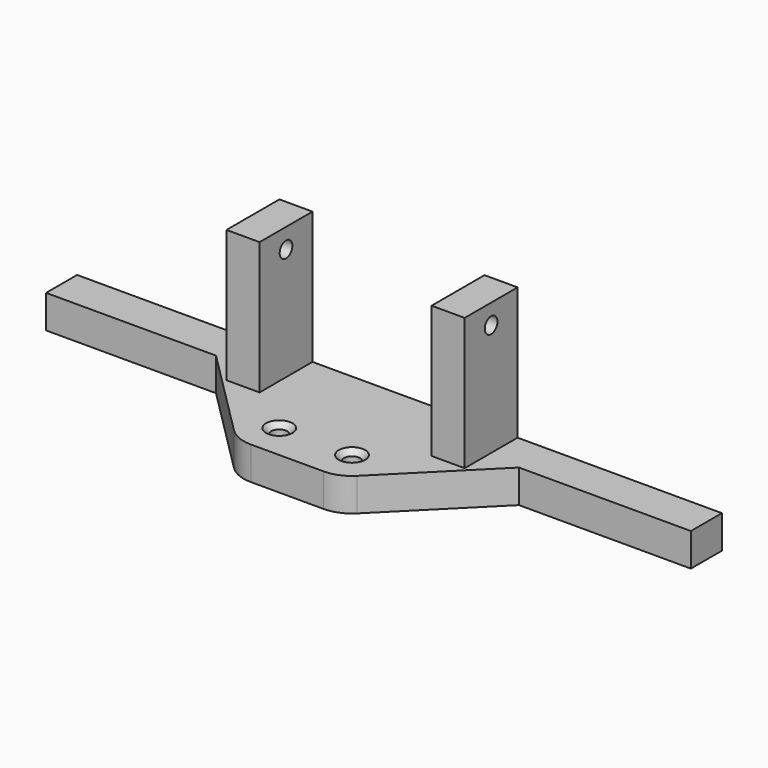
from build123d import *

# Parameters (mm, degrees)
PAD_DEPTH        = 5
SKETCH004_R      = 3
POCKET_DEPTH     = 3
HOLE_D           = 2.4
HOLE_CSINK_D     = 4
HOLE_CSINK_ANGLE = 90
SKETCH006_W      = 5
SKETCH006_H      = 10
PAD001_DEPTH     = 20
SKETCH007_W      = 5
SKETCH007_H      = 10
PAD002_DEPTH     = 20
SKETCH008_R      = 1.2
HOLE001_DEPTH    = 66.882828


with BuildPart() as part:
    # Sketch → Pad (new body)
    with BuildSketch(Plane.XY):
        with BuildLine():
            ThreePointArc((-9.299092, 37.700908), (-7.543295, 36.530982), (-5.472396, 36.127344))
            Line((-5.472396, 36.127344), (5.472396, 36.127344))
            ThreePointArc((5.472396, 36.127344), (7.543295, 36.530982), (9.299092, 37.700908))
            Line((9.299092, 37.700908), (22.895203, 51.297019))
            Line((22.895203, 51.297019), (48.881828, 51.297019))
            Line((48.881828, 51.297019), (48.881828, 57.158768))
            Line((-48.578125, 57.158768), (48.881828, 57.158768))
            Line((-48.578125, 51.297019), (-48.578125, 57.158768))
            Line((-22.895203, 51.297019), (-48.578125, 51.297019))
            Line((-9.299092, 37.700908), (-22.895203, 51.297019))
        make_face()
    extrude(amount=PAD_DEPTH)

    # Sketch004 (on Face11 of Pad) → Pocket (cut)
    with BuildSketch(Plane(origin=(0, 0, 0), x_dir=(1, 0, 0), z_dir=(0, 0, -1))):
        with Locations((-5.5, -41.5)):
            Circle(SKETCH004_R)
        with Locations((5.5, -41.5)):
            Circle(SKETCH004_R)
    extrude(amount=-POCKET_DEPTH, mode=Mode.SUBTRACT)

    # Hole (through all)
    with Locations(Plane.XY.offset(5)):
        with Locations((-5.5, 41.5), (5.5, 41.5)):
            CounterSinkHole(HOLE_D / 2, HOLE_CSINK_D / 2, counter_sink_angle=HOLE_CSINK_ANGLE)

    # Sketch006 (on Face5 of Hole) → Pad001 (join)
    with BuildSketch(Plane.XY.offset(5)):
        with Locations((-15.5, 52.158768)):
            Rectangle(SKETCH006_W, SKETCH006_H)
    extrude(amount=PAD001_DEPTH)

    # Sketch007 (on Face5 of Pad001) → Pad002 (join)
    with BuildSketch(Plane.XY.offset(5)):
        with Locations((15.5, 52.158768)):
            Rectangle(SKETCH007_W, SKETCH007_H)
    extrude(amount=PAD002_DEPTH)

    # Sketch008 (on Face15 of Pad002) → Hole001 (cut, through all)
    with BuildSketch(Plane(origin=(-18, 0, 0), x_dir=(0, -1, 0), z_dir=(-1, 0, 0))):
        with Locations((-52.158768, 22)):
            Circle(SKETCH008_R)
    extrude(amount=-HOLE001_DEPTH, mode=Mode.SUBTRACT)


solid = part.part
